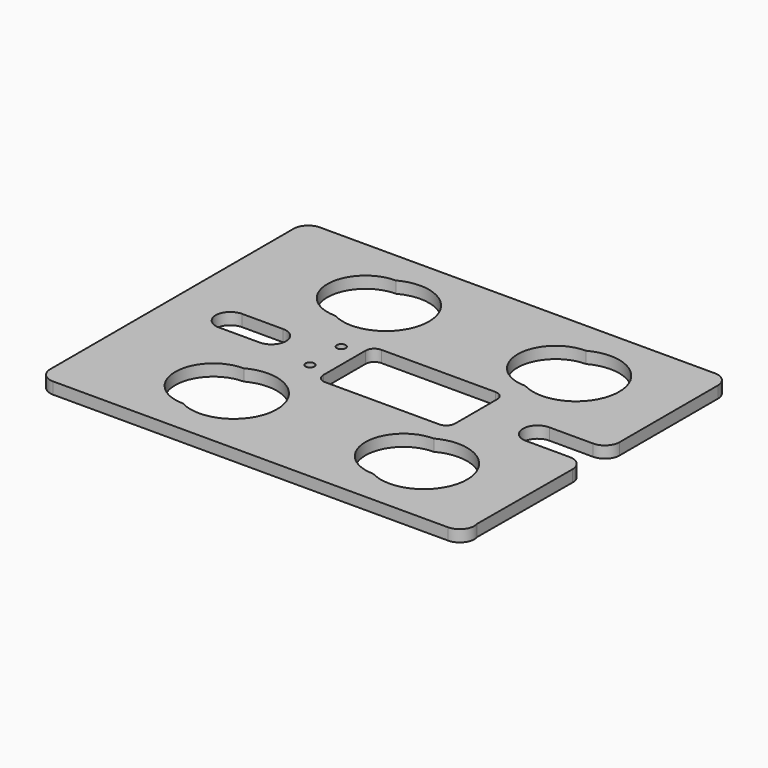
from build123d import *

# Parameters (mm, degrees)
F0_R     = 1.5
F1_DEPTH = 4


with BuildPart() as f1:
    # F0 (on Top) → F1 (new body)
    with BuildSketch(Plane.XY):
        with BuildLine():
            Line((37.934446, 56.55982), (-97.065554, 56.55982))
            ThreePointArc((-97.065554, 56.55982), (-100.601088, 55.095353), (-102.065554, 51.55982))
            Line((-102.065554, 51.55982), (-102.065554, 16.55982))
            Line((-102.065554, 16.55982), (-102.065554, -17.44018))
            Line((-102.065554, -17.44018), (-102.065554, -52.44018))
            ThreePointArc((-102.065554, -52.44018), (-100.601088, -55.975714), (-97.065554, -57.44018))
            Line((-97.065554, -57.44018), (37.934446, -57.44018))
            ThreePointArc((37.934446, -57.44018), (41.965756, -55.397974), (42.703958, -50.939597))
            Line((42.703958, -50.939597), (42.908989, -10.465509))
            ThreePointArc((42.908989, -10.465509), (41.453531, -6.913613), (37.909053, -5.44018))
            Line((37.909053, -5.44018), (36.934446, -5.44018))
            Line((36.934446, -5.44018), (22.934446, -5.44018))
            ThreePointArc((22.934446, -5.44018), (17.934446, -0.44018), (22.934446, 4.55982))
            Line((22.934446, 4.55982), (36.934446, 4.55982))
            Line((36.934446, 4.55982), (37.934446, 4.55982))
            ThreePointArc((37.934446, 4.55982), (41.46998, 6.024286), (42.934446, 9.55982))
            Line((42.934446, 9.55982), (42.934446, 51.55982))
            ThreePointArc((42.934446, 51.55982), (41.46998, 55.095353), (37.934446, 56.55982))
        make_face()
        with BuildLine():
            ThreePointArc((-62.065554, -45.729064), (-75.065554, -32.729064), (-62.065554, -19.729064))
            ThreePointArc((-62.065554, -19.729064), (-40.346874, -32.729064), (-62.065554, -45.729064))
        make_face(mode=Mode.SUBTRACT)
        with Locations((-49.479717, -7.189908)):
            Circle(F0_R, mode=Mode.SUBTRACT)
        with BuildLine():
            ThreePointArc((2.934446, -45.729064), (-10.065554, -32.729064), (2.934446, -19.729064))
            ThreePointArc((2.934446, -19.729064), (24.653126, -32.729064), (2.934446, -45.729064))
        make_face(mode=Mode.SUBTRACT)
        with BuildLine():
            ThreePointArc((-68.065554, 4.55982), (-63.065554, -0.44018), (-68.065554, -5.44018))
            Line((-68.065554, -5.44018), (-82.065554, -5.44018))
            ThreePointArc((-82.065554, -5.44018), (-87.065554, -0.44018), (-82.065554, 4.55982))
            Line((-82.065554, 4.55982), (-68.065554, 4.55982))
        make_face(mode=Mode.SUBTRACT)
        with Locations((-49.565554, 6.30982)):
            Circle(F0_R, mode=Mode.SUBTRACT)
        with BuildLine():
            ThreePointArc((-62.065554, 19.270936), (-75.065554, 32.270936), (-62.065554, 45.270936))
            ThreePointArc((-62.065554, 45.270936), (-40.346874, 32.270936), (-62.065554, 19.270936))
        make_face(mode=Mode.SUBTRACT)
        with BuildLine():
            ThreePointArc((-43.065554, 8.55982), (-42.186874, 10.68114), (-40.065554, 11.55982))
            Line((-40.065554, 11.55982), (-1.065554, 11.55982))
            ThreePointArc((-1.065554, 11.55982), (1.055766, 10.68114), (1.934446, 8.55982))
            Line((1.934446, 8.55982), (1.934446, -9.44018))
            ThreePointArc((1.934446, -9.44018), (1.055766, -11.561501), (-1.065554, -12.44018))
            Line((-1.065554, -12.44018), (-40.065554, -12.44018))
            ThreePointArc((-40.065554, -12.44018), (-42.186874, -11.561501), (-43.065554, -9.44018))
            Line((-43.065554, -9.44018), (-43.065554, 8.55982))
        make_face(mode=Mode.SUBTRACT)
        with BuildLine():
            ThreePointArc((2.934446, 19.270936), (-10.065554, 32.270936), (2.934446, 45.270936))
            ThreePointArc((2.934446, 45.270936), (24.653126, 32.270936), (2.934446, 19.270936))
        make_face(mode=Mode.SUBTRACT)
    extrude(amount=F1_DEPTH)


solid = f1.part
